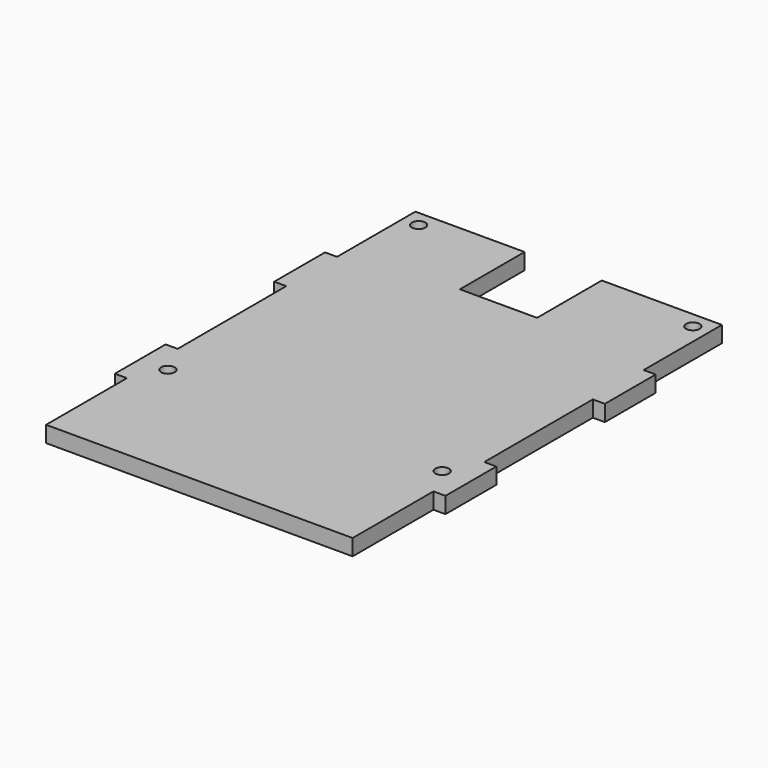
from build123d import *

# Parameters (mm, degrees)
F0_R     = 1.2573
F1_DEPTH = 3


with BuildPart() as f1:
    # F0 (on Top) → F1 (new body)
    with BuildSketch(Plane.XY):
        Polygon((-4.835955, -42.675929), (-25.105155, -42.675929), (-25.105155, -60.836929), (-27.340355, -60.836929), (-27.340355, -72.622529), (-25.105155, -72.622529), (-25.105155, -97.819329), (-27.340355, -97.819329), (-27.340355, -109.604929), (-25.105155, -109.604929), (-25.105155, -128.350129), (31.790845, -128.350129), (31.790845, -109.604929), (34.026045, -109.604929), (34.026045, -97.819329), (31.790845, -97.819329), (31.790845, -72.622529), (34.026045, -72.622529), (34.026045, -60.836929), (31.790845, -60.836929), (31.790845, -42.675929), (9.489645, -42.675929), (9.489645, -57.687329), (-4.835955, -57.687329), align=None)
        with Locations((-22.107955, -103.839129)):
            Circle(F0_R, mode=Mode.SUBTRACT)
        with Locations((28.790845, -103.839129)):
            Circle(F0_R, mode=Mode.SUBTRACT)
        with Locations((-22.107955, -45.675929)):
            Circle(F0_R, mode=Mode.SUBTRACT)
        with Locations((28.790845, -45.675929)):
            Circle(F0_R, mode=Mode.SUBTRACT)
    extrude(amount=F1_DEPTH)


solid = f1.part
